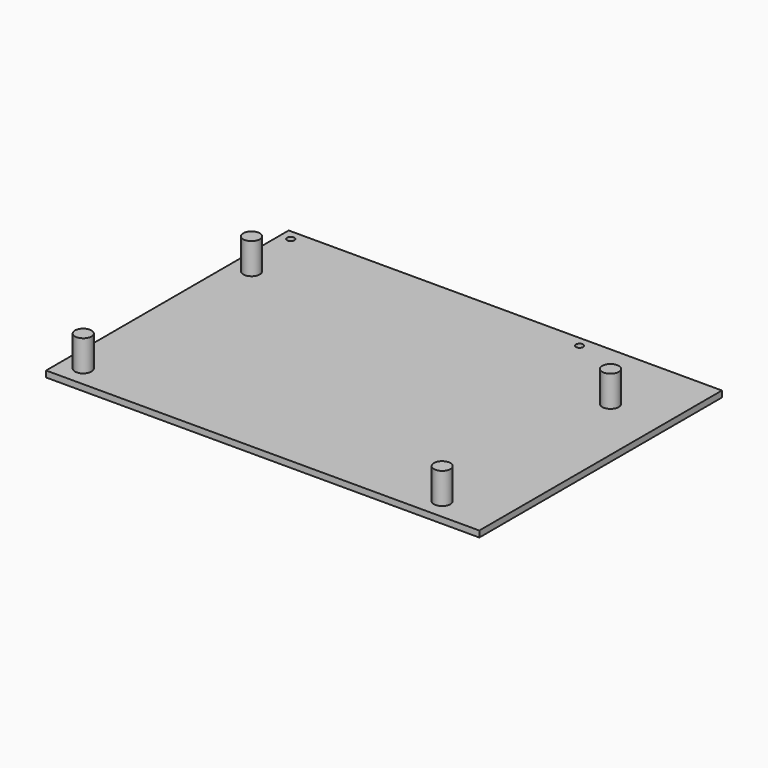
from build123d import *

# Parameters (mm, degrees)
F0_W     = 210
F0_H     = 147
F1_DEPTH = 3
F2_R     = 4
F3_DEPTH = 15
F4_R     = 1.75
F5_DEPTH = 25


with BuildPart() as f1:
    # F0 (on Top) → F1 (new body)
    with BuildSketch(Plane.XY):
        with Locations((105, -73.5)):
            Rectangle(F0_W, F0_H)
    extrude(amount=F1_DEPTH)

    # F2 (on face) → F3 (join)
    with BuildSketch(Plane.XY.offset(3)):
        with Locations((10, -35)):
            Circle(F2_R)
        with Locations((184, -35)):
            Circle(F2_R)
        with Locations((184, -137)):
            Circle(F2_R)
        with Locations((10, -137)):
            Circle(F2_R)
    extrude(amount=F3_DEPTH)

    # F4 (on face) → F5 (cut)
    with BuildSketch(Plane.XY.offset(3)):
        with Locations((5, -5)):
            Circle(F4_R)
        with Locations((145, -5)):
            Circle(F4_R)
    extrude(amount=-F5_DEPTH, mode=Mode.SUBTRACT)


solid = f1.part
